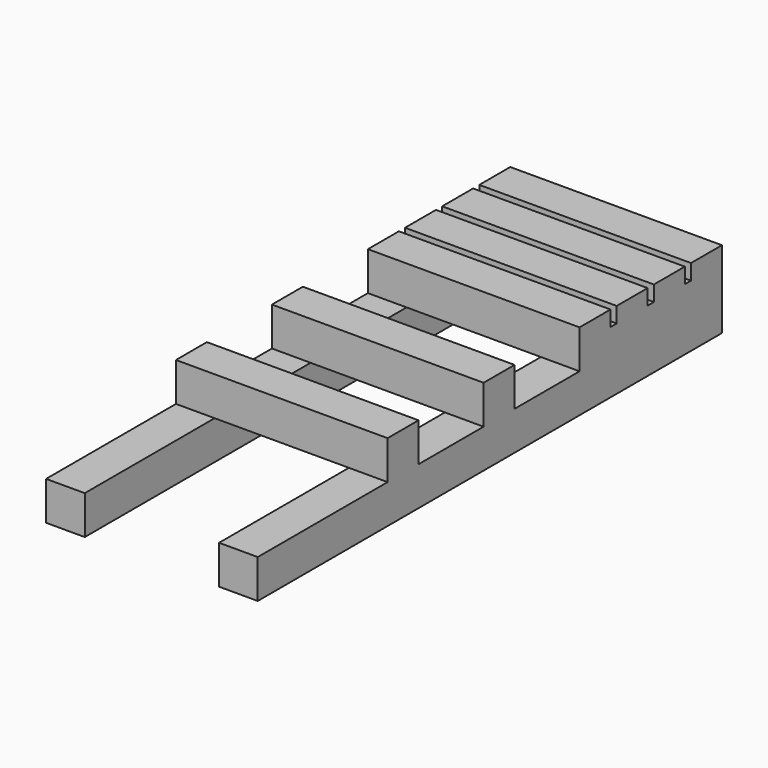
from build123d import *

# Parameters (mm, degrees)
F0_W     = 1.27
F0_H     = 19.05
F1_DEPTH = 1.27
F2_W     = 6.94944
F2_H     = 1.27
F3_DEPTH = 1.27
F4_W     = 6.94944
F4_H     = 5.842
F5_DEPTH = 0.762


with BuildPart() as f1:
    # F0 (on Top) → F1 (new body)
    with BuildSketch(Plane.XY):
        with Locations((-2.83972, -2.891212)):
            Rectangle(F0_W, F0_H)
        with Locations((2.83972, -2.891212)):
            Rectangle(F0_W, F0_H)
    extrude(amount=F1_DEPTH)

    # F2 (on face) → F3 (join)
    with BuildSketch(Plane.XY.offset(1.27)):
        with Locations((0, 5.998788)):
            Rectangle(F2_W, F2_H)
        with Locations((0, 4.474788)):
            Rectangle(F2_W, F2_H)
        with Locations((0, 2.950788)):
            Rectangle(F2_W, F2_H)
        with Locations((0, 1.426788)):
            Rectangle(F2_W, F2_H)
        with Locations((0, -2.51257)):
            Rectangle(F2_W, F2_H)
        with Locations((0, -6.451929)):
            Rectangle(F2_W, F2_H)
    extrude(amount=F3_DEPTH)

    # F4 (on face) → F5 (join)
    with BuildSketch(Plane.XY.offset(1.27)):
        with Locations((0, 3.712788)):
            Rectangle(F4_W, F4_H)
    extrude(amount=F5_DEPTH)


solid = f1.part
